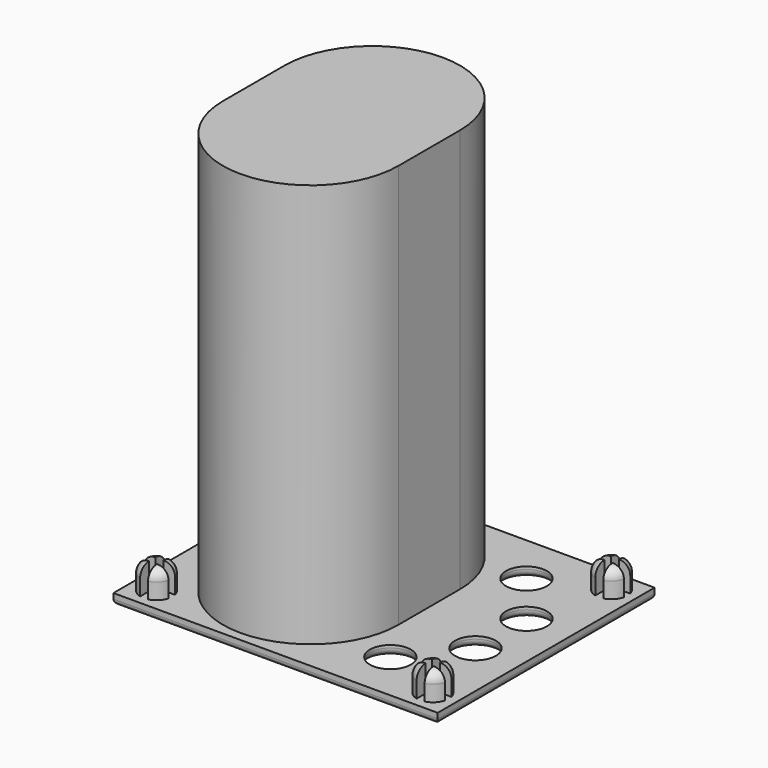
from build123d import *

# Parameters (mm, degrees)
SKETCH001_W                = 61
SKETCH001_H                = 51
PAD_DEPTH                  = 2
SKETCH002_R                = 3
PAD001_DEPTH               = 5
SKETCH002_MIRRORED_2_R     = 3
PAD001_MIRRORED_2_DEPTH    = 5
FILLET_R                   = 2
FILLET001_R                = 1
POCKET_DEPTH               = 5
POCKET_MIRRORED002_2_DEPTH = 5
PAD012_DEPTH               = 78
SKETCH040_R                = 3.85
POCKET008_DEPTH            = 77
FILLET016_R                = 4
FILLET017_R                = 1.5


with BuildPart() as part:
    # Sketch001 → Pad (new body)
    with BuildSketch(Plane.XY):
        Rectangle(SKETCH001_W, SKETCH001_H)
    extrude(amount=PAD_DEPTH)

    # Sketch002 (on DatumPlane) → Pad001 (join)
    with BuildSketch(Plane.XY.offset(2)):
        with Locations((-26, 21)):
            Circle(SKETCH002_R)
    pad001 = extrude(amount=PAD001_DEPTH)

    # Sketch002 Mirrored 2 → Pad001 Mirrored 2 (add)
    with BuildSketch(Plane(origin=(0, 0, 2), x_dir=(-1, 0, 0), z_dir=(0, 0, -1))):
        with Locations((-26, 21)):
            Circle(SKETCH002_MIRRORED_2_R)
    pad001_mirrored_2 = extrude(amount=-PAD001_MIRRORED_2_DEPTH)

    # Mirrored001: Pad001, Pad001 Mirrored 2 across Sketch002 H_Axis
    add(pad001.mirror(Plane(origin=(0, 0, 2), x_dir=(0, 0, 1), z_dir=(0, 1, 0))))
    add(pad001_mirrored_2.mirror(Plane(origin=(0, 0, 2), x_dir=(0, 0, 1), z_dir=(0, 1, 0))))

    # Fillet
    fillet_edges = [part.edges().sort_by_distance(p)[0] for p in [
        (29, 21, 7),
        (29, -21, 7),
        (-29, -21, 7),
        (-29, 21, 7),
    ]]
    fillet(fillet_edges, radius=FILLET_R)

    # Fillet001
    fillet001_edges = [part.edges().sort_by_distance(p)[0] for p in [
        (0, 25.5, 0),
        (30.5, 0, 0),
        (0, -25.5, 0),
        (-30.5, 0, 0),
    ]]
    fillet(fillet001_edges, radius=FILLET001_R)

    # Sketch003 (on DatumPlane) → Pocket (cut)
    with BuildSketch(Plane.XY.offset(7)):
        Polygon((-29.265642, -20.28286), (-26.765642, -20.28286), (-26.765642, -17.78286), (-25.265642, -17.78286), (-25.265642, -20.28286), (-22.765642, -20.28286), (-22.765642, -21.78286), (-25.265642, -21.78286), (-25.265642, -24.28286), (-26.765642, -24.28286), (-26.765642, -21.78286), (-29.265642, -21.78286), align=None)
    pocket = extrude(amount=-POCKET_DEPTH, mode=Mode.SUBTRACT)

    # Sketch003 Mirrored002 2 → Pocket Mirrored002 2 (cut)
    with BuildSketch(Plane(origin=(0, 0, 7), x_dir=(-1, 0, 0), z_dir=(0, 0, -1))):
        Polygon((-29.265642, -20.28286), (-26.765642, -20.28286), (-26.765642, -17.78286), (-25.265642, -17.78286), (-25.265642, -20.28286), (-22.765642, -20.28286), (-22.765642, -21.78286), (-25.265642, -21.78286), (-25.265642, -24.28286), (-26.765642, -24.28286), (-26.765642, -21.78286), (-29.265642, -21.78286), align=None)
    pocket_mirrored002_2 = extrude(amount=POCKET_MIRRORED002_2_DEPTH, mode=Mode.SUBTRACT)

    # Mirrored003: Pocket, Pocket Mirrored002 2 across Sketch003 H_Axis
    add(pocket.mirror(Plane(origin=(0, 0, 7), x_dir=(0, 0, 1), z_dir=(0, 1, 0))), mode=Mode.SUBTRACT)
    add(pocket_mirrored002_2.mirror(Plane(origin=(0, 0, 7), x_dir=(0, 0, 1), z_dir=(0, 1, 0))), mode=Mode.SUBTRACT)


with BuildPart() as part_1:
    # Body placement: moved
    add(part.part.moved(Location((0, -65, 0))))


with BuildPart() as part_2:
    # Clone001 placement: moved
    add(part_1.part.moved(Location((0, 65, 0))))

    # Sketch039 → Pad012 (new body)
    with BuildSketch(Plane(origin=(0, 0, 0), x_dir=(1, 0, 0), z_dir=(0, 0, -1))):
        with BuildLine():
            ThreePointArc((8.5, 7.25), (-8, 23.75), (-24.5, 7.25))
            Line((-24.5, 7.25), (-24.5, -7.25))
            ThreePointArc((-24.5, -7.25), (-8, -23.75), (8.5, -7.25))
            Line((8.5, -7.25), (8.5, 7.25))
        make_face()
    extrude(amount=-PAD012_DEPTH)

    # Sketch040 → Pocket008 (cut)
    with BuildSketch(Plane.XY):
        with Locations((14, 16)):
            Circle(SKETCH040_R)
        with Locations((14, -16)):
            Circle(SKETCH040_R)
        with Locations((22, 6)):
            Circle(SKETCH040_R)
        with Locations((22, -6)):
            Circle(SKETCH040_R)
        with BuildLine():
            ThreePointArc((7.5, 7.25), (-8, 22.75), (-23.5, 7.25))
            Line((-23.5, 7.25), (-23.5, -7.25))
            ThreePointArc((-23.5, -7.25), (-8, -22.75), (7.5, -7.25))
            Line((7.5, -7.25), (7.5, 7.25))
        make_face()
    extrude(amount=POCKET008_DEPTH, mode=Mode.SUBTRACT)

    # Fillet016
    fillet016_edges = [part_2.edges().sort_by_distance(p)[0] for p in [
        (-8, 22.75, 77),
        (-23.5, 0, 77),
        (-8, -22.75, 77),
        (7.5, 0, 77),
    ]]
    fillet(fillet016_edges, radius=FILLET016_R)

    # Fillet017
    fillet017_edges = [part_2.edges().sort_by_distance(p)[0] for p in [
        (18.15, 6, 0),
        (10.15, 16, 0),
        (18.15, -6, 0),
        (10.15, -16, 0),
    ]]
    fillet(fillet017_edges, radius=FILLET017_R)


with BuildPart() as part_3:
    # Body008 placement: moved
    add(part_2.part.moved(Location((150, 0, 0))))


solid = part_3.part
